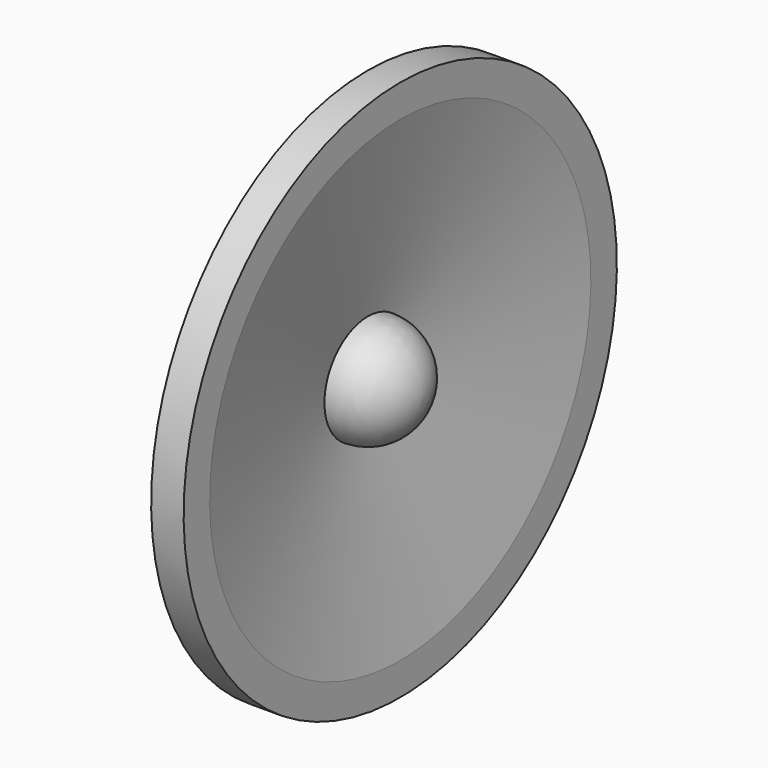
from build123d import *


with BuildPart() as f1:
    # F0 (on Front) → F1 (revolve)
    with BuildSketch(Plane.XZ):
        Polygon((0, 125), (0, 25), (15, 110), (15, 125), align=None)
        with BuildLine():
            Line((0, 25), (0, 0))
            Line((0, 0), (25, 0))
            ThreePointArc((25, 0), (17.67767, 17.67767), (0, 25))
        make_face()
    revolve(axis=Axis((12.5, 0, 0), (1, 0, 0)))


solid = f1.part
